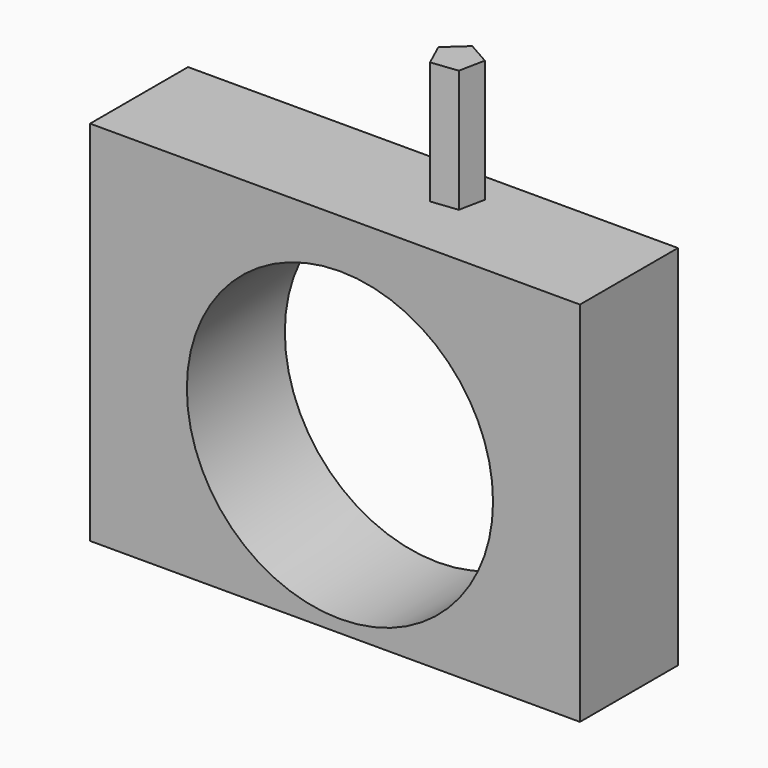
from build123d import *

# Parameters (mm, degrees)
F0_W     = 101.6
F0_H     = 76.2
F1_DEPTH = 25.4
F3_D     = 63.5
F5_DEPTH = 25.4


with BuildPart() as f1:
    # F0 (on Front) → F1 (new body)
    with BuildSketch(Plane.XZ):
        with Locations((50.8, 38.1)):
            Rectangle(F0_W, F0_H)
    extrude(amount=F1_DEPTH)

    # F3 (through all)
    with Locations(Plane.XZ.offset(25.4)):
        with Locations((51.822923, 34.358785)):
            Hole(F3_D / 2)

    # F4 (on face) → F5 (join)
    with BuildSketch(Plane.XY.offset(76.2)):
        Polygon((61.826725, -3.606968), (57.771097, -7.324631), (60.053547, -12.330584), (65.519807, -11.706769), (66.615691, -6.315278), align=None)
    extrude(amount=F5_DEPTH)


solid = f1.part
